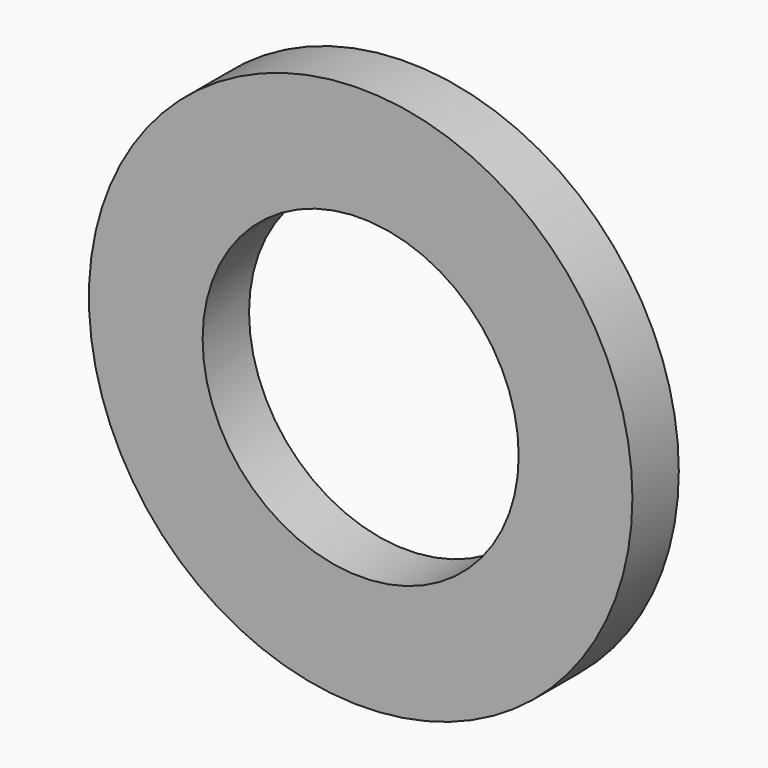
from build123d import *

# Parameters (mm, degrees)
F0_R     = 44.48852
F1_DEPTH = 9.5
F2_R     = 25.811478
F4_DEPTH = 8.7
F5_R     = 25.87177
F6_DEPTH = 25


with BuildPart() as f1:
    # F0 (on Front) → F1 (new body)
    with BuildSketch(Plane.XZ):
        Circle(F0_R)
    extrude(amount=-F1_DEPTH)

    # F2 (on Front) → F4 (join)
    with BuildSketch(Plane.XZ):
        Circle(F2_R)
    extrude(amount=-F4_DEPTH)

    # F5 (on Front) → F6 (cut)
    with BuildSketch(Plane.XZ):
        Circle(F5_R)
    extrude(amount=-F6_DEPTH, mode=Mode.SUBTRACT)


solid = f1.part
